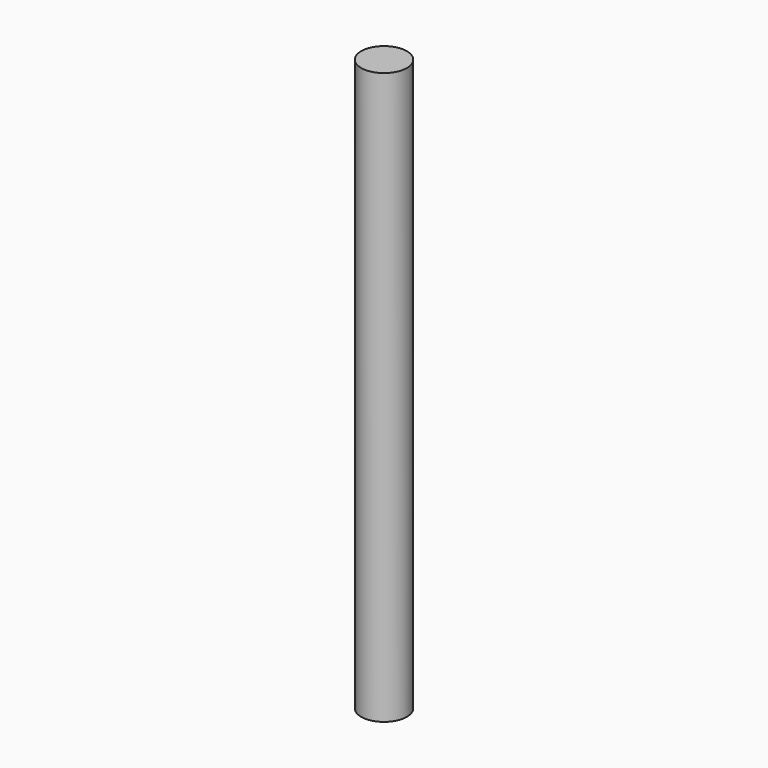
from build123d import *

# Parameters (mm, degrees)
SKETCH_R  = 4
PAD_DEPTH = 100


with BuildPart() as part:
    # Sketch → Pad (new body)
    with BuildSketch(Plane.XY):
        Circle(SKETCH_R)
    extrude(amount=PAD_DEPTH)


solid = part.part
